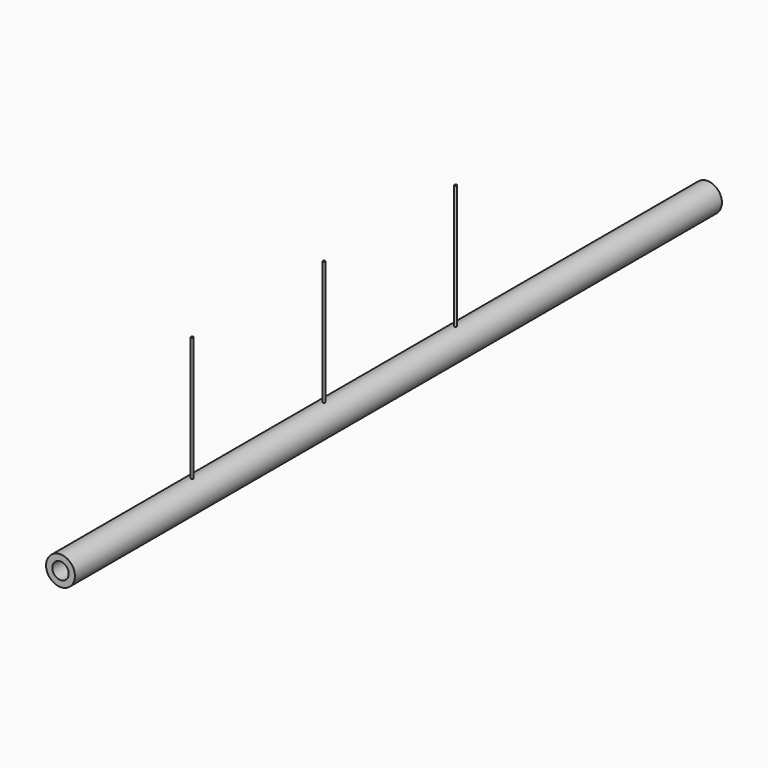
from build123d import *

# Parameters (mm, degrees)
F0_R     = 1.5875
F0_R_2   = 0.903846
F1_DEPTH = 88.9
F2_R     = 0.127
F3_DEPTH = 15.24


with BuildPart() as f1:
    # F0 (on Front) → F1 (new body)
    with BuildSketch(Plane.XZ):
        Circle(F0_R)
        Circle(F0_R_2, mode=Mode.SUBTRACT)
    extrude(amount=F1_DEPTH)

    # F2 (on Top) → F3 (join)
    with BuildSketch(Plane.XY):
        with Locations((0, -70.8025)):
            Circle(F2_R)
        with Locations((0, -34.6075)):
            Circle(F2_R)
        with Locations((0, -52.705)):
            Circle(F2_R)
    extrude(amount=F3_DEPTH)


solid = f1.part
